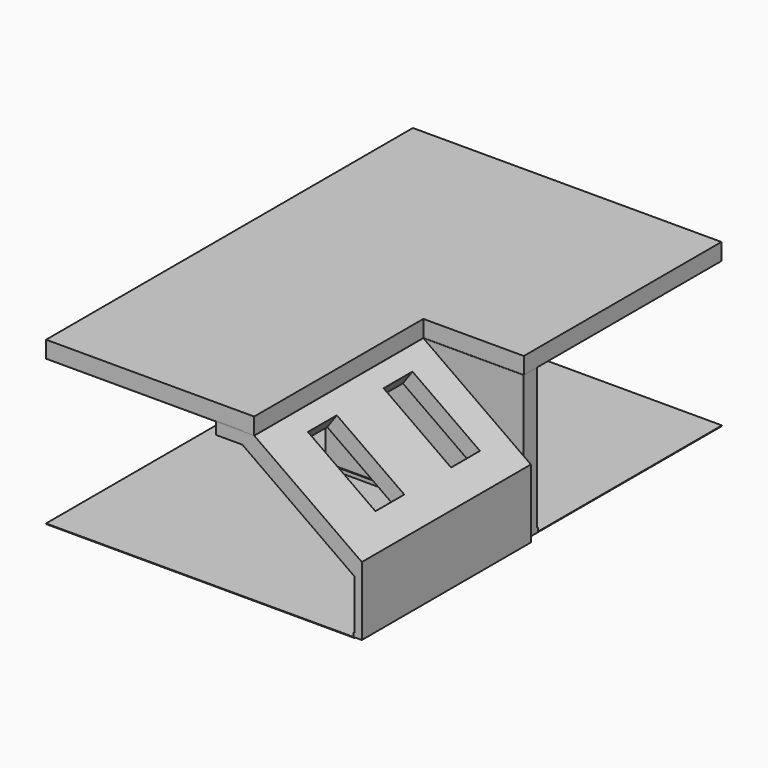
from build123d import *

# Parameters (mm, degrees)
SKETCH001_W  = 4960
SKETCH001_H  = 3660
PAD_DEPTH    = 10
SKETCH002_W  = 4960
SKETCH002_H  = 3720
PAD001_DEPTH = 10
SKETCH003_W  = 3200
SKETCH003_H  = 300
PAD002_DEPTH = 61
SKETCH004_W  = 3184
SKETCH004_H  = 268
PAD003_DEPTH = 2270
PAD004_DEPTH = 3396
SKETCH006_W  = 1330
SKETCH006_H  = 580
POCKET_DEPTH = 1266.1143743978
PAD005_DEPTH = 270
SKETCH008_W  = 3155
SKETCH008_H  = 3660
PAD006_DEPTH = 10


with BuildPart() as body001:
    # Sketch001 → Pad (new body)
    with BuildSketch(Plane.XY):
        with Locations((2480, -1830)):
            Rectangle(SKETCH001_W, SKETCH001_H)
    extrude(amount=-PAD_DEPTH)


with BuildPart() as floor_k:
    # Sketch002 → Pad001 (new body)
    with BuildSketch(Plane.XY):
        with Locations((2480, 1860)):
            Rectangle(SKETCH002_W, SKETCH002_H)
    extrude(amount=-PAD001_DEPTH)


with BuildPart() as body003:
    # Sketch003 → Pad002 (new body)
    with BuildSketch(Plane.XY):
        with Locations((3360, -130)):
            Rectangle(SKETCH003_W, SKETCH003_H)
    extrude(amount=PAD002_DEPTH)

    # Sketch004 (on Face6 of Pad002) → Pad003 (join)
    with BuildSketch(Plane.XY.offset(61)):
        with Locations((3368, -130)):
            Rectangle(SKETCH004_W, SKETCH004_H)
    extrude(amount=PAD003_DEPTH)


with BuildPart() as body004:
    # Sketch005 → Pad004 (new body)
    with BuildSketch(Plane.XZ):
        Polygon((2730, 2330), (2730, 2140), (3155, 2140), (4960, 860), (4960, 61), (4944, 61), (4944, 0), (5075.8506573188, 0), (5075.8506573188, 1103.8824003466), (3346.8332609325, 2330), align=None)
    extrude(amount=PAD004_DEPTH)

    # Sketch006 (on Face3 of Pad004) → Pocket (cut, through all)
    with BuildSketch(Plane(origin=(2065.4677647467, 0, 2912.6322776311), x_dir=(0.8157135056, 0, -0.5784561148), z_dir=(-0.5784561148, 0, -0.8157135056))):
        with Locations((2353.4667291794, 820)):
            Rectangle(SKETCH006_W, SKETCH006_H)
        with Locations((2353.4667291794, 2340)):
            Rectangle(SKETCH006_W, SKETCH006_H)
    extrude(amount=-POCKET_DEPTH, mode=Mode.SUBTRACT)


with BuildPart() as body004_1:
    # Body004 placement: moved
    add(body004.part.moved(Location((0, -264, 0))))


with BuildPart() as ceiling:
    # Sketch007 → Pad005 (new body)
    with BuildSketch(Plane.XY):
        Polygon((0, 3710), (4960, 3710), (4960, -260), (3345, -260), (3345, -3660), (0, -3660), align=None)
    extrude(amount=PAD005_DEPTH)


with BuildPart() as ceiling_1:
    # Body005 placement: moved
    add(ceiling.part.moved(Location((0, 0, 2330))))


with BuildPart() as ceiling_small:
    # Sketch008 → Pad006 (new body)
    with BuildSketch(Plane.XY):
        with Locations((1577.5, -1830)):
            Rectangle(SKETCH008_W, SKETCH008_H)
    extrude(amount=PAD006_DEPTH)


with BuildPart() as ceiling_small_1:
    # Body006 placement: moved
    add(ceiling_small.part.moved(Location((0, 0, 2330))))


solid = Compound([body001.part, floor_k.part, body003.part, body004_1.part, ceiling_1.part, ceiling_small_1.part])
